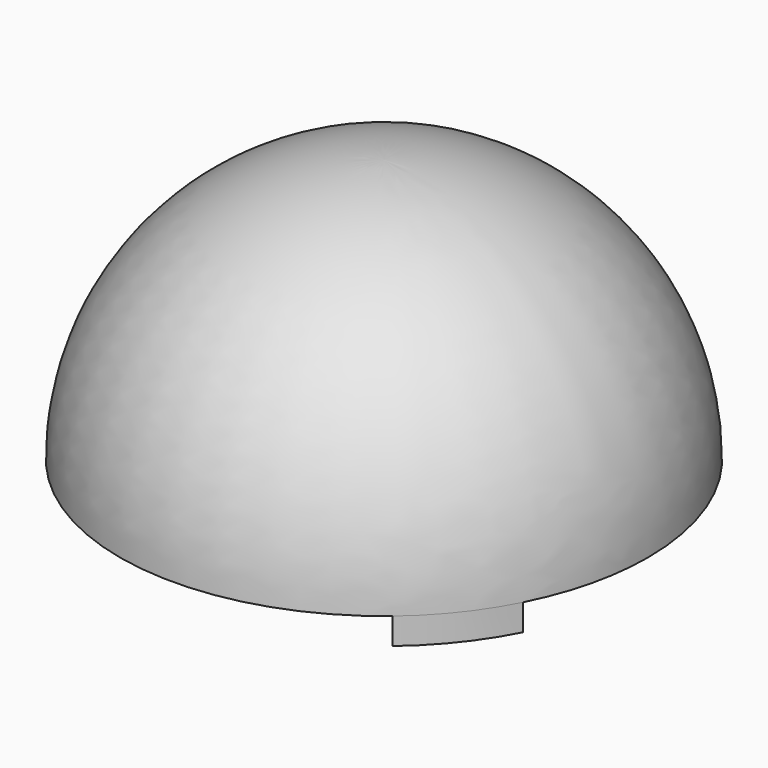
from build123d import *

# Parameters (mm, degrees)
F3_DEPTH = 2.54


with BuildPart() as f1:
    # F0 (on Front) → F1 (revolve)
    with BuildSketch(Plane.XZ):
        with BuildLine():
            Line((22.86, 0), (25.4, 0))
            ThreePointArc((25.4, 0), (17.960512, 17.960512), (0, 25.4))
            Line((0, 25.4), (0, 22.86))
            ThreePointArc((0, 22.86), (16.164461, 16.164461), (22.86, 0))
        make_face()
    revolve(axis=Axis((0, 0, 24.13), (0, 0, 1)))

    # F2 (on face) → F3 (join)
    with BuildSketch(Plane(origin=(0, 0, 0), x_dir=(1, 0, 0), z_dir=(0, 0, -1))):
        with BuildLine():
            Line((16.34902, 19.438867), (14.810317, 17.413619))
            ThreePointArc((14.810317, 17.413619), (18.010433, 14.078491), (20.474257, 10.167813))
            Line((20.474257, 10.167813), (22.627686, 11.53897))
            ThreePointArc((22.627686, 11.53897), (19.884617, 15.803861), (16.34902, 19.438867))
        make_face()
    extrude(amount=F3_DEPTH)


solid = f1.part
